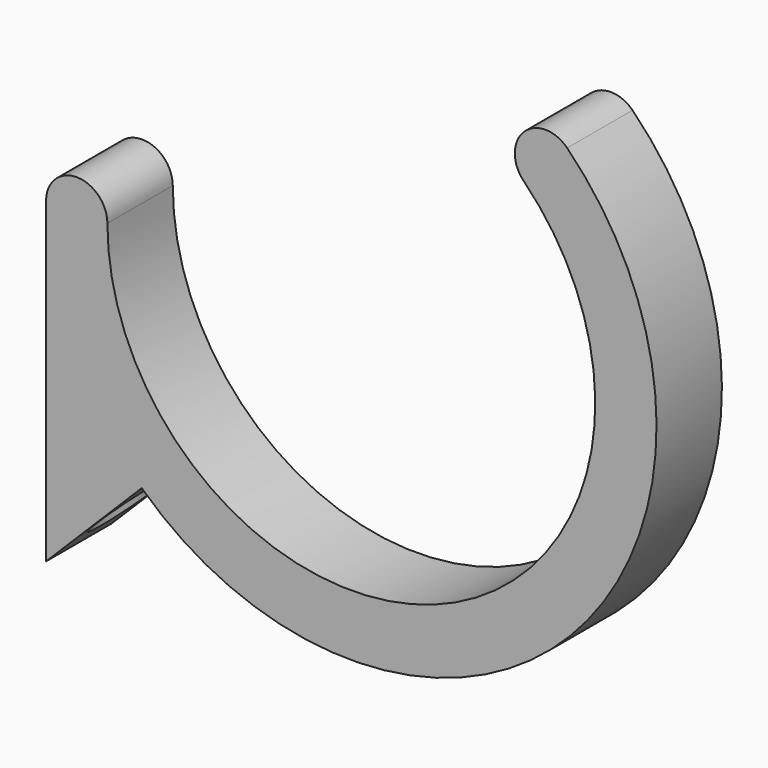
from build123d import *

# Parameters (mm, degrees)
PAD_DEPTH           = 10
HOLE001_D           = 5
HOLE001_DEPTH       = 195.23
HOLE001_CSINK_D     = 9
HOLE001_CSINK_ANGLE = 90


with BuildPart() as part:
    # Sketch → Pad (new body)
    with BuildSketch(Plane.XZ):
        with BuildLine():
            Line((-37.345, 0), (-37.345, -38.855))
            Line((-37.345, -38.855), (-25.641107, -27.151107))
            ThreePointArc((-25.641107, -27.151107), (26.781742, -26.026665), (26.406903, 26.406903))
            ThreePointArc((26.406903, 26.406903), (21.103602, 26.406903), (21.103602, 21.103602))
            ThreePointArc((-29.845, 0), (11.421187, -27.573185), (21.103602, 21.103602))
            ThreePointArc((-29.845, 0), (-33.595, 3.75), (-37.345, 0))
        make_face()
    extrude(amount=PAD_DEPTH)

    # Hole001
    with Locations(Plane(origin=(0.755, 0, -0.755), x_dir=(0.707107, 0, 0.707107), z_dir=(0.707107, 0, -0.707107))):
        with Locations((-45.605635, 5)):
            CounterSinkHole(HOLE001_D / 2, HOLE001_CSINK_D / 2, depth=HOLE001_DEPTH, counter_sink_angle=HOLE001_CSINK_ANGLE)


solid = part.part
